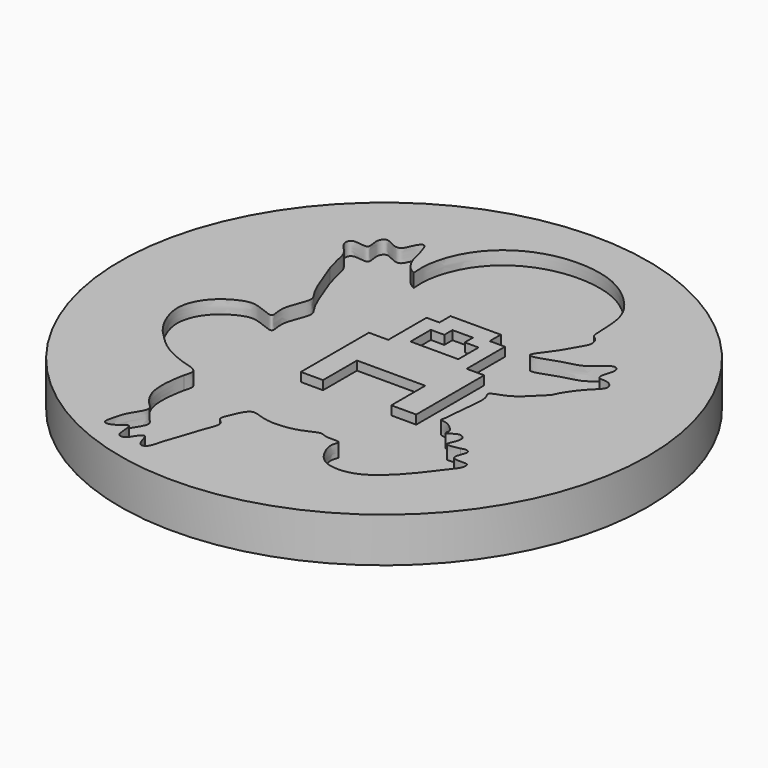
from build123d import *

# Parameters (mm, degrees)
F1_DEPTH = 5.334
F0_R     = 45.0738557328
F2_DEPTH = 7.62
F4_DEPTH = 1.524


with BuildPart() as f1:
    # F0 (on Top) → F1 (new body)
    with BuildSketch(Plane.XY):
        with BuildLine():
            add(Edge.make_bspline(
                [(-19.3219017237, 16.1069780588), (-19.3943083525, 17.0724678186), (-19.5645146207, 19.3420446759), (-17.8879321459, 25.0121906155), (-13.1236458051, 30.07851388), (-5.746564977, 32.5149991759), (2.2942145556, 31.5415152491), (7.4924138928, 27.8426868969), (10.9604251889, 23.1973223745), (10.3954275356, 16.9946999808), (11.2137061442, 16.6038322642), (11.9316831039, 15.8759873807), (12.1221553464, 14.6238289378), (11.1925517778, 13.1309577911), (10.2251723624, 11.3534746324), (9.095295254, 9.5814138953), (6.8658766999, 6.876829162), (9.2836474481, 7.2129201155), (12.230707698, 8.5597844327), (15.6411170603, 8.939347696), (18.3110884296, 12.2506795252), (19.6249809685, 10.9102262695), (18.8432540646, 9.2018992674), (18.6638476276, 7.4999055256), (20.6318796, 7.9605331018), (22.1984825441, 6.2248515929), (19.6931933596, 4.2887168903), (17.6497494242, 1.3902718304), (17.2323324, 0.3852604987), (17.0723199844, 0)],
                knots=[0, 0, 0, 0, 0.0384804471, 0.0904559901, 0.1472246706, 0.2072408579, 0.2683128945, 0.3223716713, 0.3751319981, 0.4264122575, 0.4443172383, 0.4654005304, 0.4888541236, 0.5173480561, 0.5480482459, 0.5820941535, 0.6166324972, 0.641989285, 0.6824350234, 0.7236736798, 0.764848248, 0.7871573637, 0.8170594604, 0.8412513074, 0.8684530924, 0.8961504037, 0.932093362, 0.9739687062, 1, 1, 1, 1], degree=3))
            add(Edge.make_bspline(
                [(-28.8785565645, 10.13738662), (-29.1098815843, 10.8685587547), (-29.5854053304, 12.3715942356), (-29.9015530751, 15.0266053845), (-32.2455780811, 16.6869304488), (-31.6666268825, 18.7888694616), (-28.1025133117, 17.4310772679), (-29.2014203477, 20.0903750924), (-28.2826623547, 21.6936131306), (-26.7325767235, 20.7024282777), (-24.953813622, 20.090770375), (-24.3122010822, 22.288493957), (-23.2363386362, 23.7125231136), (-22.4175255265, 21.8234291546), (-21.9274755255, 19.5829465775), (-21.5297569744, 18.3384446464), (-20.495013873, 16.7193654648), (-19.6905243446, 16.2994062514), (-19.3219017237, 16.1069780588)],
                knots=[0, 0, 0, 0, 0.0711413128, 0.1462417839, 0.2214947418, 0.2749400242, 0.3483003116, 0.4116794604, 0.4667196071, 0.5250978425, 0.5822820154, 0.6488848888, 0.7008726088, 0.7575232195, 0.8301595564, 0.8841314649, 0.9469082424, 1, 1, 1, 1], degree=3))
            add(Edge.make_bspline(
                [(-34.9826291203, -17.9234612733), (-35.4126941042, -17.3569919722), (-36.4674411482, -15.9689907631), (-38.3257507004, -11.2182296432), (-35.9934031506, -6.5058059775), (-32.226033043, -4.3078922544), (-29.7866246683, -3.9378583923), (-25.6494481963, -6.2104009393), (-27.1546297368, -2.7819967527), (-24.5852118315, 1.6252140173), (-26.3458331069, 3.223469036), (-27.9022876561, 7.4059325806), (-28.8785565645, 10.13738662)],
                knots=[0, 0, 0, 0, 0.0805567349, 0.1946956895, 0.3108565794, 0.4164169014, 0.5010173674, 0.5943438576, 0.6720100992, 0.7854346817, 0.8574097988, 1, 1, 1, 1], degree=3))
            add(Edge.make_bspline(
                [(-24.7482862324, -26.0995831341), (-24.571735848, -25.5044320418), (-24.2285808383, -24.4572991191), (-25.3424942684, -23.7234884801), (-26.5794451073, -23.5025376612), (-31.5875098927, -21.6827470719), (-33.7192146499, -19.1882746859), (-34.9826291203, -17.9234612733)],
                knots=[0, 0, 0, 0, 0.1596551365, 0.2870454743, 0.4286462499, 0.7108764877, 1, 1, 1, 1], degree=3))
            add(Edge.make_bspline(
                [(-13.8286659494, -39.3532775342), (-14.2254210088, -40.4125422209), (-14.9772538808, -42.4198008376), (-15.5523426145, -45.3461406498), (-16.9788124226, -45.6291187257), (-17.4577761201, -44.0263387354), (-17.867148809, -42.6976409473), (-18.8296413587, -43.6982124837), (-19.4954537426, -45.1479635105), (-20.9491635228, -45.2514440288), (-21.0456442854, -43.6041445608), (-21.2830441863, -41.4640042007), (-22.6663745928, -43.1100667394), (-25.005033813, -43.8242984426), (-24.4281898123, -41.4164535545), (-23.9580243904, -39.4162281512), (-21.8092761389, -36.6351231809), (-23.3875865712, -35.4643730018), (-25.4617678703, -32.6641511181), (-25.1726990068, -28.1882567497), (-24.871284843, -26.7048993929), (-24.7482862324, -26.0995831341)],
                knots=[0, 0, 0, 0, 0.0708005979, 0.134163927, 0.17022601, 0.217987697, 0.2568663794, 0.2943388977, 0.3434336791, 0.3809061596, 0.4282615682, 0.4749623441, 0.5225458347, 0.5736750298, 0.6229066395, 0.6823656932, 0.7480080885, 0.7944573234, 0.8648890145, 0.9448650213, 1, 1, 1, 1], degree=3))
            add(Edge.make_bspline(
                [(20.1436169446, -24.8054061085), (18.5544159257, -26.9455458482), (15.6038286316, -30.9190325555), (11.0077023415, -34.5492952867), (6.3735087238, -34.6618434271), (4.0998895079, -32.8039171769), (2.7965650691, -29.6094758616), (3.9830709527, -27.9490026116), (1.0492949989, -28.4139201031), (-0.0139532034, -27.4168773678), (-2.7696628006, -29.2755786468), (-8.3278026295, -29.8250541989), (-11.4082833312, -27.8283733996), (-12.7451052845, -31.4252777802), (-13.5472480525, -33.0638044076), (-11.7441601888, -33.8246293666), (-12.9293036645, -36.410570948), (-13.5135135749, -38.3221013512), (-13.8286659494, -39.3532775342)],
                knots=[0, 0, 0, 0, 0.1006947565, 0.1869547437, 0.2605708216, 0.3213808511, 0.3867861484, 0.4252926162, 0.4784648428, 0.5195117248, 0.5812406939, 0.6676211538, 0.7282038636, 0.7922259868, 0.8378183424, 0.8787557237, 0.934594705, 1, 1, 1, 1], degree=3))
            add(Edge.make_bspline(
                [(18.2972550392, -22.2841706127), (18.4807465156, -22.3770157501), (18.9124113645, -22.595434518), (20.0783104106, -22.5119080032), (21.0880122209, -22.5971311847), (20.856233029, -23.9372585191), (20.38485273, -24.5115195822), (20.1436169446, -24.8054061085)],
                knots=[0, 0, 0, 0, 0.1651599888, 0.3885399093, 0.5692864651, 0.7795760278, 1, 1, 1, 1], degree=3))
            add(Edge.make_bspline(
                [(17.2323324, -19.6349080652), (17.5240493727, -19.5351294088), (18.0652110257, -19.3500308795), (18.8908744409, -19.7403165645), (18.3842442934, -20.9796834432), (18.0449782766, -21.9800989911), (18.2307499986, -22.2040114442), (18.2972550392, -22.2841706127)],
                knots=[0, 0, 0, 0, 0.2118217401, 0.3929486926, 0.6413360522, 0.8716006929, 1, 1, 1, 1], degree=3))
            add(Edge.make_bspline(
                [(12.9554793239, -16.6425891221), (12.8859236574, -17.0232154854), (12.7173393282, -17.9457519715), (14.3220960704, -16.2497550524), (15.896862907, -16.9083189832), (15.4680217471, -18.5834678208), (14.5490103871, -20.1853085624), (16.2520868546, -19.835975113), (17.2323324, -19.6349080652)],
                knots=[0, 0, 0, 0, 0.125473524, 0.3041142576, 0.461613297, 0.6392157532, 0.7923421775, 1, 1, 1, 1], degree=3))
            add(Edge.make_bspline(
                [(10.2391466498, -13.0974147469), (10.2049913162, -13.6601484293), (10.1564211857, -14.4603762558), (9.9278547353, -14.8616889987), (10.9797453187, -14.8523816518), (12.0861625027, -15.4807416393), (12.8432154508, -16.3362343559), (12.9269545939, -16.5647485243), (12.9554793239, -16.6425891221)],
                knots=[0, 0, 0, 0, 0.2227642281, 0.3167788595, 0.4841913079, 0.7042549516, 0.8992580131, 1, 1, 1, 1], degree=3))
            add(Edge.make_bspline(
                [(17.0723199844, 0), (16.4997354575, -0.5532151134), (15.2589693799, -1.7520085038), (13.0439715121, -4.0315130169), (9.7516422979, -4.6888836237), (10.9694118077, -6.0249808981), (10.6000257229, -9.286657189), (10.3638252342, -11.7808522388), (10.2391466498, -13.0974147469)],
                knots=[0, 0, 0, 0, 0.1602321184, 0.3472161187, 0.5104947241, 0.6151520163, 0.7968577371, 1, 1, 1, 1], degree=3))
        make_face()
    extrude(amount=F1_DEPTH)

    # F0 (on Top) → F2 (join)
    with BuildSketch(Plane.XY):
        with Locations((-6.9172410294, -5.7248324156)):
            Circle(F0_R)
        with BuildLine():
            add(Edge.make_bspline(
                [(-28.8785565645, 10.13738662), (-29.1098815843, 10.8685587547), (-29.5854053304, 12.3715942356), (-29.9015530751, 15.0266053845), (-32.2455780811, 16.6869304488), (-31.6666268825, 18.7888694616), (-28.1025133117, 17.4310772679), (-29.2014203477, 20.0903750924), (-28.2826623547, 21.6936131306), (-26.7325767235, 20.7024282777), (-24.953813622, 20.090770375), (-24.3122010822, 22.288493957), (-23.2363386362, 23.7125231136), (-22.4175255265, 21.8234291546), (-21.9274755255, 19.5829465775), (-21.5297569744, 18.3384446464), (-20.495013873, 16.7193654648), (-19.6905243446, 16.2994062514), (-19.3219017237, 16.1069780588)],
                knots=[0, 0, 0, 0, 0.0711413128, 0.1462417839, 0.2214947418, 0.2749400242, 0.3483003116, 0.4116794604, 0.4667196071, 0.5250978425, 0.5822820154, 0.6488848888, 0.7008726088, 0.7575232195, 0.8301595564, 0.8841314649, 0.9469082424, 1, 1, 1, 1], degree=3))
            add(Edge.make_bspline(
                [(-19.3219017237, 16.1069780588), (-19.3943083525, 17.0724678186), (-19.5645146207, 19.3420446759), (-17.8879321459, 25.0121906155), (-13.1236458051, 30.07851388), (-5.746564977, 32.5149991759), (2.2942145556, 31.5415152491), (7.4924138928, 27.8426868969), (10.9604251889, 23.1973223745), (10.3954275356, 16.9946999808), (11.2137061442, 16.6038322642), (11.9316831039, 15.8759873807), (12.1221553464, 14.6238289378), (11.1925517778, 13.1309577911), (10.2251723624, 11.3534746324), (9.095295254, 9.5814138953), (6.8658766999, 6.876829162), (9.2836474481, 7.2129201155), (12.230707698, 8.5597844327), (15.6411170603, 8.939347696), (18.3110884296, 12.2506795252), (19.6249809685, 10.9102262695), (18.8432540646, 9.2018992674), (18.6638476276, 7.4999055256), (20.6318796, 7.9605331018), (22.1984825441, 6.2248515929), (19.6931933596, 4.2887168903), (17.6497494242, 1.3902718304), (17.2323324, 0.3852604987), (17.0723199844, 0)],
                knots=[0, 0, 0, 0, 0.0384804471, 0.0904559901, 0.1472246706, 0.2072408579, 0.2683128945, 0.3223716713, 0.3751319981, 0.4264122575, 0.4443172383, 0.4654005304, 0.4888541236, 0.5173480561, 0.5480482459, 0.5820941535, 0.6166324972, 0.641989285, 0.6824350234, 0.7236736798, 0.764848248, 0.7871573637, 0.8170594604, 0.8412513074, 0.8684530924, 0.8961504037, 0.932093362, 0.9739687062, 1, 1, 1, 1], degree=3))
            add(Edge.make_bspline(
                [(17.0723199844, 0), (16.4997354575, -0.5532151134), (15.2589693799, -1.7520085038), (13.0439715121, -4.0315130169), (9.7516422979, -4.6888836237), (10.9694118077, -6.0249808981), (10.6000257229, -9.286657189), (10.3638252342, -11.7808522388), (10.2391466498, -13.0974147469)],
                knots=[0, 0, 0, 0, 0.1602321184, 0.3472161187, 0.5104947241, 0.6151520163, 0.7968577371, 1, 1, 1, 1], degree=3))
            add(Edge.make_bspline(
                [(10.2391466498, -13.0974147469), (10.2049913162, -13.6601484293), (10.1564211857, -14.4603762558), (9.9278547353, -14.8616889987), (10.9797453187, -14.8523816518), (12.0861625027, -15.4807416393), (12.8432154508, -16.3362343559), (12.9269545939, -16.5647485243), (12.9554793239, -16.6425891221)],
                knots=[0, 0, 0, 0, 0.2227642281, 0.3167788595, 0.4841913079, 0.7042549516, 0.8992580131, 1, 1, 1, 1], degree=3))
            add(Edge.make_bspline(
                [(12.9554793239, -16.6425891221), (12.8859236574, -17.0232154854), (12.7173393282, -17.9457519715), (14.3220960704, -16.2497550524), (15.896862907, -16.9083189832), (15.4680217471, -18.5834678208), (14.5490103871, -20.1853085624), (16.2520868546, -19.835975113), (17.2323324, -19.6349080652)],
                knots=[0, 0, 0, 0, 0.125473524, 0.3041142576, 0.461613297, 0.6392157532, 0.7923421775, 1, 1, 1, 1], degree=3))
            add(Edge.make_bspline(
                [(17.2323324, -19.6349080652), (17.5240493727, -19.5351294088), (18.0652110257, -19.3500308795), (18.8908744409, -19.7403165645), (18.3842442934, -20.9796834432), (18.0449782766, -21.9800989911), (18.2307499986, -22.2040114442), (18.2972550392, -22.2841706127)],
                knots=[0, 0, 0, 0, 0.2118217401, 0.3929486926, 0.6413360522, 0.8716006929, 1, 1, 1, 1], degree=3))
            add(Edge.make_bspline(
                [(18.2972550392, -22.2841706127), (18.4807465156, -22.3770157501), (18.9124113645, -22.595434518), (20.0783104106, -22.5119080032), (21.0880122209, -22.5971311847), (20.856233029, -23.9372585191), (20.38485273, -24.5115195822), (20.1436169446, -24.8054061085)],
                knots=[0, 0, 0, 0, 0.1651599888, 0.3885399093, 0.5692864651, 0.7795760278, 1, 1, 1, 1], degree=3))
            add(Edge.make_bspline(
                [(20.1436169446, -24.8054061085), (18.5544159257, -26.9455458482), (15.6038286316, -30.9190325555), (11.0077023415, -34.5492952867), (6.3735087238, -34.6618434271), (4.0998895079, -32.8039171769), (2.7965650691, -29.6094758616), (3.9830709527, -27.9490026116), (1.0492949989, -28.4139201031), (-0.0139532034, -27.4168773678), (-2.7696628006, -29.2755786468), (-8.3278026295, -29.8250541989), (-11.4082833312, -27.8283733996), (-12.7451052845, -31.4252777802), (-13.5472480525, -33.0638044076), (-11.7441601888, -33.8246293666), (-12.9293036645, -36.410570948), (-13.5135135749, -38.3221013512), (-13.8286659494, -39.3532775342)],
                knots=[0, 0, 0, 0, 0.1006947565, 0.1869547437, 0.2605708216, 0.3213808511, 0.3867861484, 0.4252926162, 0.4784648428, 0.5195117248, 0.5812406939, 0.6676211538, 0.7282038636, 0.7922259868, 0.8378183424, 0.8787557237, 0.934594705, 1, 1, 1, 1], degree=3))
            add(Edge.make_bspline(
                [(-13.8286659494, -39.3532775342), (-14.2254210088, -40.4125422209), (-14.9772538808, -42.4198008376), (-15.5523426145, -45.3461406498), (-16.9788124226, -45.6291187257), (-17.4577761201, -44.0263387354), (-17.867148809, -42.6976409473), (-18.8296413587, -43.6982124837), (-19.4954537426, -45.1479635105), (-20.9491635228, -45.2514440288), (-21.0456442854, -43.6041445608), (-21.2830441863, -41.4640042007), (-22.6663745928, -43.1100667394), (-25.005033813, -43.8242984426), (-24.4281898123, -41.4164535545), (-23.9580243904, -39.4162281512), (-21.8092761389, -36.6351231809), (-23.3875865712, -35.4643730018), (-25.4617678703, -32.6641511181), (-25.1726990068, -28.1882567497), (-24.871284843, -26.7048993929), (-24.7482862324, -26.0995831341)],
                knots=[0, 0, 0, 0, 0.0708005979, 0.134163927, 0.17022601, 0.217987697, 0.2568663794, 0.2943388977, 0.3434336791, 0.3809061596, 0.4282615682, 0.4749623441, 0.5225458347, 0.5736750298, 0.6229066395, 0.6823656932, 0.7480080885, 0.7944573234, 0.8648890145, 0.9448650213, 1, 1, 1, 1], degree=3))
            add(Edge.make_bspline(
                [(-24.7482862324, -26.0995831341), (-24.571735848, -25.5044320418), (-24.2285808383, -24.4572991191), (-25.3424942684, -23.7234884801), (-26.5794451073, -23.5025376612), (-31.5875098927, -21.6827470719), (-33.7192146499, -19.1882746859), (-34.9826291203, -17.9234612733)],
                knots=[0, 0, 0, 0, 0.1596551365, 0.2870454743, 0.4286462499, 0.7108764877, 1, 1, 1, 1], degree=3))
            add(Edge.make_bspline(
                [(-34.9826291203, -17.9234612733), (-35.4126941042, -17.3569919722), (-36.4674411482, -15.9689907631), (-38.3257507004, -11.2182296432), (-35.9934031506, -6.5058059775), (-32.226033043, -4.3078922544), (-29.7866246683, -3.9378583923), (-25.6494481963, -6.2104009393), (-27.1546297368, -2.7819967527), (-24.5852118315, 1.6252140173), (-26.3458331069, 3.223469036), (-27.9022876561, 7.4059325806), (-28.8785565645, 10.13738662)],
                knots=[0, 0, 0, 0, 0.0805567349, 0.1946956895, 0.3108565794, 0.4164169014, 0.5010173674, 0.5943438576, 0.6720100992, 0.7854346817, 0.8574097988, 1, 1, 1, 1], degree=3))
        make_face(mode=Mode.SUBTRACT)
    extrude(amount=F2_DEPTH)

    # F3 (on face) → F4 (join)
    with BuildSketch(Plane.XY.offset(5.334)):
        Polygon((0, 8.1737106666), (0, 10.5368178338), (-8.5866667151, 10.5368178338), (-8.5866667151, 8.1737106666), (-10.786450468, 8.1737106666), (-10.786450468, 0), (-14.0947988257, 0), (-14.0947988257, -14.5121123642), (-10.3138284758, -14.5121123642), (-10.3138284758, -7.2652525268), (1.3441634364, -7.2652525268), (1.3441634364, -14.5121123642), (5.5977548473, -14.5121123642), (5.5977548473, 0), (2.6044873521, 0), (2.6044873521, 8.1737106666), align=None)
        Polygon((-8.1580206752, 1.4680116437), (-8.1580206752, 5.8007910848), (-5.8581270278, 5.8007910848), (-5.8581270278, 7.5470129959), (-2.3609097116, 7.5470129959), (-2.3609097116, 5.8007910848), (0, 5.8007910848), (0, 1.4680116437), align=None, mode=Mode.SUBTRACT)
    extrude(amount=F4_DEPTH)


solid = f1.part
